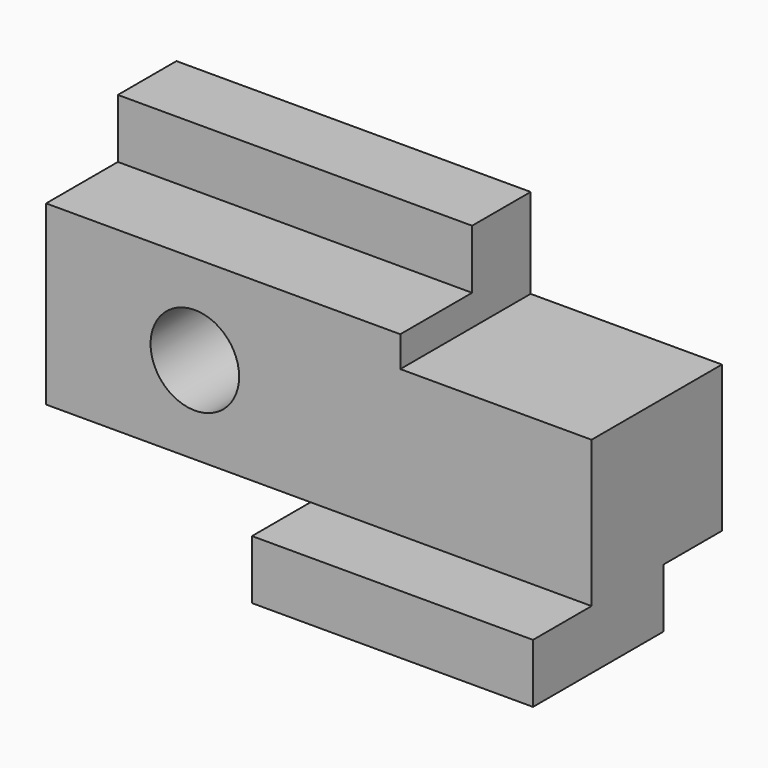
from build123d import *

# Parameters (mm, degrees)
F0_W      = 117.348
F0_H      = 63.5
F1_DEPTH  = 50.8
F2_W      = 41.148
F2_H      = 19.304
F3_DEPTH  = 50.801
F5_R      = 9.525
F6_DEPTH  = 50.801
F7_W      = 15.748
F7_H      = 12.7
F8_DEPTH  = 117.349
F9_W      = 35.052
F9_H      = 12.7
F10_DEPTH = 76.201
F4_W      = 56.896
F4_H      = 12.7
F12_DEPTH = 50.801
F11_W     = 15.748
F11_H     = 38.1
F13_DEPTH = 76.201
F14_W     = 15.748
F14_H     = 31.496
F15_DEPTH = 117.349


with BuildPart() as f1:
    # F0 (on Front) → F1 (new body)
    with BuildSketch(Plane.XZ):
        Rectangle(F0_W, F0_H)
    extrude(amount=F1_DEPTH)

    # F2 (on face) → F3 (cut, through all)
    with BuildSketch(Plane.XZ.offset(50.8)):
        with Locations((38.1, 22.098)):
            Rectangle(F2_W, F2_H)
    extrude(amount=-F3_DEPTH, mode=Mode.SUBTRACT)

    # F5 (on face) → F6 (cut, through all)
    with BuildSketch(Plane.XZ.offset(50.8)):
        with Locations((-26.67, -0.254)):
            Circle(F5_R)
    extrude(amount=-F6_DEPTH, mode=Mode.SUBTRACT)

    # F7 (on face) → F8 (cut, through all)
    with BuildSketch(Plane.YZ.offset(58.674)):
        with Locations((-7.874, -25.4)):
            Rectangle(F7_W, F7_H)
    extrude(amount=-F8_DEPTH, mode=Mode.SUBTRACT)

    # F9 (on face) → F10 (cut, through all)
    with BuildSketch(Plane.YZ.offset(17.526)):
        with Locations((-33.274, 25.4)):
            Rectangle(F9_W, F9_H)
    extrude(amount=-F10_DEPTH, mode=Mode.SUBTRACT)

    # F4 (on face) → F12 (cut, through all)
    with BuildSketch(Plane.XZ.offset(50.8)):
        with Locations((-30.226, -25.4)):
            Rectangle(F4_W, F4_H)
    extrude(amount=-F12_DEPTH, mode=Mode.SUBTRACT)

    # F11 (on face) → F13 (cut, through all)
    with BuildSketch(Plane.YZ.offset(17.526)):
        with Locations((-42.926, 0)):
            Rectangle(F11_W, F11_H)
    extrude(amount=-F13_DEPTH, mode=Mode.SUBTRACT)

    # F14 (on face) → F15 (cut, through all)
    with BuildSketch(Plane.YZ.offset(58.674)):
        with Locations((-42.926, -3.302)):
            Rectangle(F14_W, F14_H)
    extrude(amount=-F15_DEPTH, mode=Mode.SUBTRACT)


solid = f1.part
